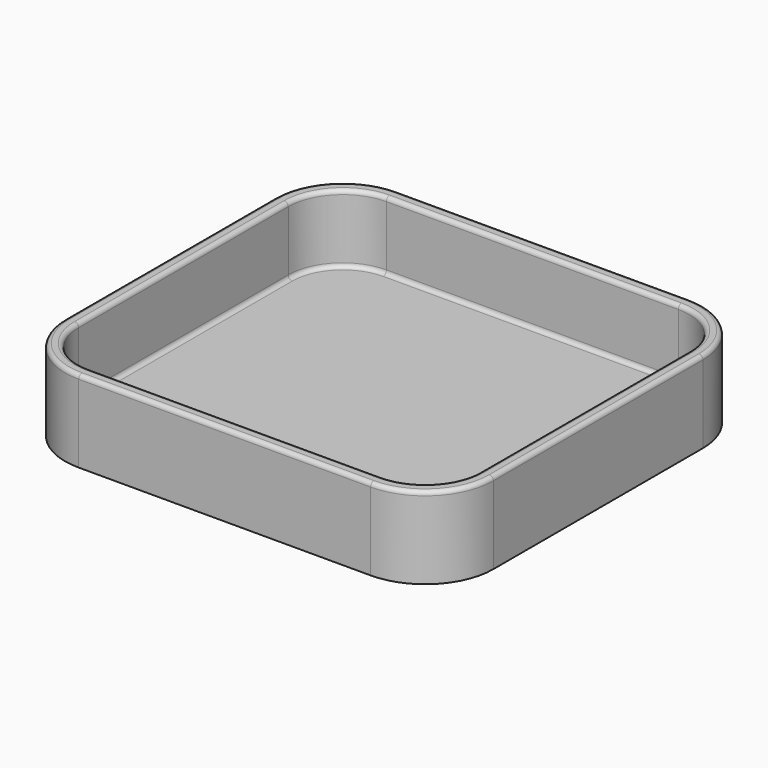
from build123d import *

# Parameters (mm, degrees)
F1_DEPTH = 2.5
F2_DEPTH = 15
F3_R     = 0.75


with BuildPart() as f1:
    # F0 (on Top) → F1 (new body)
    with BuildSketch(Plane.XY):
        with BuildLine():
            Line((26.75, 36.5), (-26.75, 36.5))
            ThreePointArc((-26.75, 36.5), (-35.5888347648, 32.8388347648), (-39.25, 24))
            Line((-39.25, 24), (-39.25, -24))
            ThreePointArc((-39.25, -24), (-35.5888347648, -32.8388347648), (-26.75, -36.5))
            Line((-26.75, -36.5), (26.75, -36.5))
            ThreePointArc((26.75, -36.5), (35.5888347648, -32.8388347648), (39.25, -24))
            Line((39.25, -24), (39.25, 24))
            ThreePointArc((39.25, 24), (35.5888347648, 32.8388347648), (26.75, 36.5))
        make_face()
        with BuildLine():
            ThreePointArc((-36.75, 24), (-33.8210678119, 31.0710678119), (-26.75, 34))
            Line((-26.75, 34), (26.75, 34))
            ThreePointArc((26.75, 34), (33.8210678119, 31.0710678119), (36.75, 24))
            Line((36.75, 24), (36.75, -24))
            ThreePointArc((36.75, -24), (33.8210678119, -31.0710678119), (26.75, -34))
            Line((26.75, -34), (-26.75, -34))
            ThreePointArc((-26.75, -34), (-33.8210678119, -31.0710678119), (-36.75, -24))
            Line((-36.75, -24), (-36.75, 24))
        make_face(mode=Mode.SUBTRACT)
        with BuildLine():
            Line((26.75, 34), (-26.75, 34))
            ThreePointArc((-26.75, 34), (-33.8210678119, 31.0710678119), (-36.75, 24))
            Line((-36.75, 24), (-36.75, -24))
            ThreePointArc((-36.75, -24), (-33.8210678119, -31.0710678119), (-26.75, -34))
            Line((-26.75, -34), (26.75, -34))
            ThreePointArc((26.75, -34), (33.8210678119, -31.0710678119), (36.75, -24))
            Line((36.75, -24), (36.75, 24))
            ThreePointArc((36.75, 24), (33.8210678119, 31.0710678119), (26.75, 34))
        make_face()
    extrude(amount=F1_DEPTH)

    # F0 (on Top) → F2 (join)
    with BuildSketch(Plane.XY):
        with BuildLine():
            Line((26.75, 36.5), (-26.75, 36.5))
            ThreePointArc((-26.75, 36.5), (-35.5888347648, 32.8388347648), (-39.25, 24))
            Line((-39.25, 24), (-39.25, -24))
            ThreePointArc((-39.25, -24), (-35.5888347648, -32.8388347648), (-26.75, -36.5))
            Line((-26.75, -36.5), (26.75, -36.5))
            ThreePointArc((26.75, -36.5), (35.5888347648, -32.8388347648), (39.25, -24))
            Line((39.25, -24), (39.25, 24))
            ThreePointArc((39.25, 24), (35.5888347648, 32.8388347648), (26.75, 36.5))
        make_face()
        with BuildLine():
            ThreePointArc((-36.75, 24), (-33.8210678119, 31.0710678119), (-26.75, 34))
            Line((-26.75, 34), (26.75, 34))
            ThreePointArc((26.75, 34), (33.8210678119, 31.0710678119), (36.75, 24))
            Line((36.75, 24), (36.75, -24))
            ThreePointArc((36.75, -24), (33.8210678119, -31.0710678119), (26.75, -34))
            Line((26.75, -34), (-26.75, -34))
            ThreePointArc((-26.75, -34), (-33.8210678119, -31.0710678119), (-36.75, -24))
            Line((-36.75, -24), (-36.75, 24))
        make_face(mode=Mode.SUBTRACT)
    extrude(amount=F2_DEPTH)

    # F3
    f3_edges = [f1.edges().sort_by_distance(p)[0] for p in [
        (0, 36.5, 15),
        (-35.588835, 32.838835, 15),
        (-39.25, 0, 15),
        (-35.588835, -32.838835, 15),
        (0, -36.5, 15),
        (35.588835, -32.838835, 15),
        (39.25, 0, 15),
        (35.588835, 32.838835, 15),
        (-33.821068, 31.071068, 15),
        (0, 34, 15),
        (33.821068, 31.071068, 15),
        (36.75, 0, 15),
        (33.821068, -31.071068, 15),
        (0, -34, 15),
        (-33.821068, -31.071068, 15),
        (-36.75, 0, 15),
        (-33.821068, 31.071068, 2.5),
        (0, 34, 2.5),
        (33.821068, 31.071068, 2.5),
        (36.75, 0, 2.5),
        (33.821068, -31.071068, 2.5),
        (0, -34, 2.5),
        (-33.821068, -31.071068, 2.5),
        (-36.75, 0, 2.5),
    ]]
    fillet(f3_edges, radius=F3_R)


solid = f1.part
